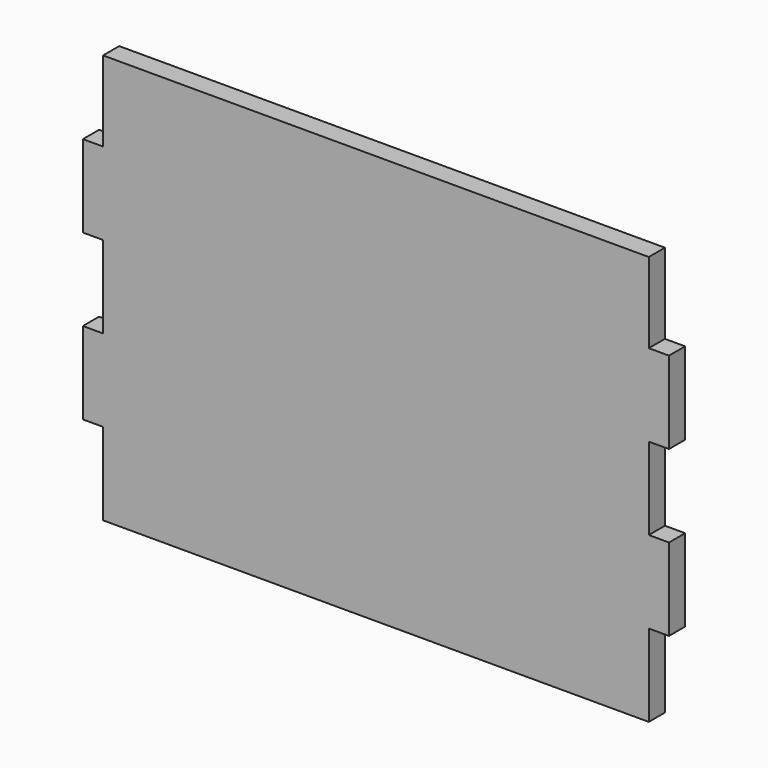
from build123d import *

# Parameters (mm, degrees)
F1_DEPTH = 18.796


with BuildPart() as f1:
    # F0 (on Front) → F1 (new body)
    with BuildSketch(Plane.XZ):
        Polygon((0, -191.9224), (254, -191.9224), (254, -115.35156), (272.796, -115.35156), (272.796, -38.78072), (254, -38.78072), (254, 37.79012), (272.796, 37.79012), (272.796, 114.36096), (254, 114.36096), (254, 189.0776), (0, 189.0776), align=None)
        Polygon((-254, -191.9224), (0, -191.9224), (0, 189.0776), (-254, 189.0776), (-254, 114.36096), (-272.796, 114.36096), (-272.796, 37.79012), (-254, 37.79012), (-254, -38.78072), (-272.796, -38.78072), (-272.796, -115.35156), (-254, -115.35156), align=None)
    extrude(amount=F1_DEPTH)


solid = f1.part
